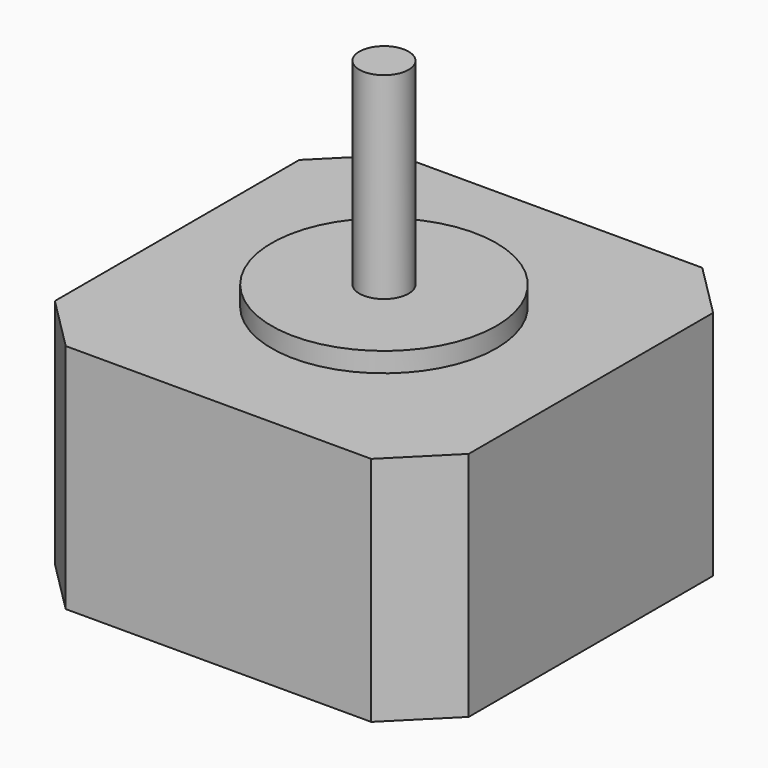
from build123d import *

# Parameters (mm, degrees)
PAD043_DEPTH = 23.5
SKETCH047_R  = 11.4
PAD044_DEPTH = 2
SKETCH048_R  = 2.5
PAD045_DEPTH = 20


with BuildPart() as part:
    # Sketch046 → Pad043 (new body)
    with BuildSketch(Plane.XY):
        Polygon((-15.5, 21), (-21, 15.5), (-21, -15.5), (-15.5, -21), (15.5, -21), (21, -15.5), (21, 15.5), (15.5, 21), align=None)
    extrude(amount=-PAD043_DEPTH)

    # Sketch047 (on Face9 of Pad043) → Pad044 (join)
    with BuildSketch(Plane.XY):
        Circle(SKETCH047_R)
    extrude(amount=PAD044_DEPTH)

    # Sketch048 (on Face12 of Pad044) → Pad045 (join)
    with BuildSketch(Plane.XY.offset(2)):
        Circle(SKETCH048_R)
    extrude(amount=PAD045_DEPTH)


solid = part.part
